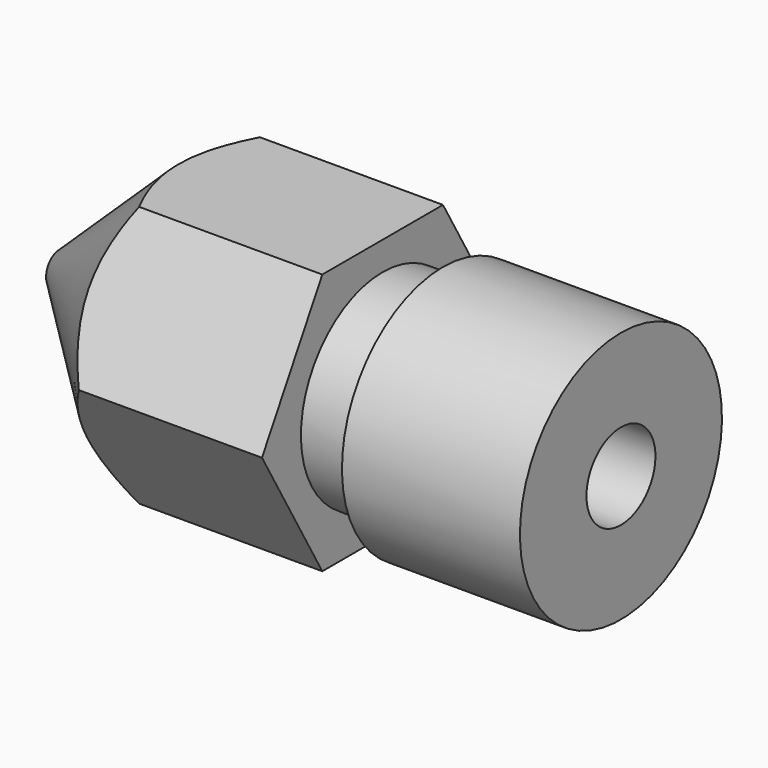
from build123d import *

# Parameters (mm, degrees)
F3_DEPTH = 12.5


with BuildPart() as f1:
    # F0 (on Front) → F1 (revolve)
    with BuildSketch(Plane.XZ):
        Polygon((-2.545452, 1), (6.156367, 1), (6.156367, 2.93), (2.026367, 2.93), (2.026367, 2.37), (0.626367, 2.37), (0.626367, 3.5), (-3.623633, 3.5), (-6.863633, 0.4), (-6.863633, 0.062), (-3.22727, 0.062), align=None)
    revolve(axis=Axis((-2.092945, 0, 0), (1, 0, 0)))

    # F2 (on face) → F3 (intersect, symmetric)
    with BuildSketch(Plane.YZ.offset(0.626367)):
        Polygon((1.75, 3.031089), (-1.75, 3.031089), (-3.5, 0), (-1.75, -3.031089), (1.75, -3.031089), (3.5, 0), align=None)
    extrude(amount=F3_DEPTH, both=True, mode=Mode.INTERSECT)


solid = f1.part
